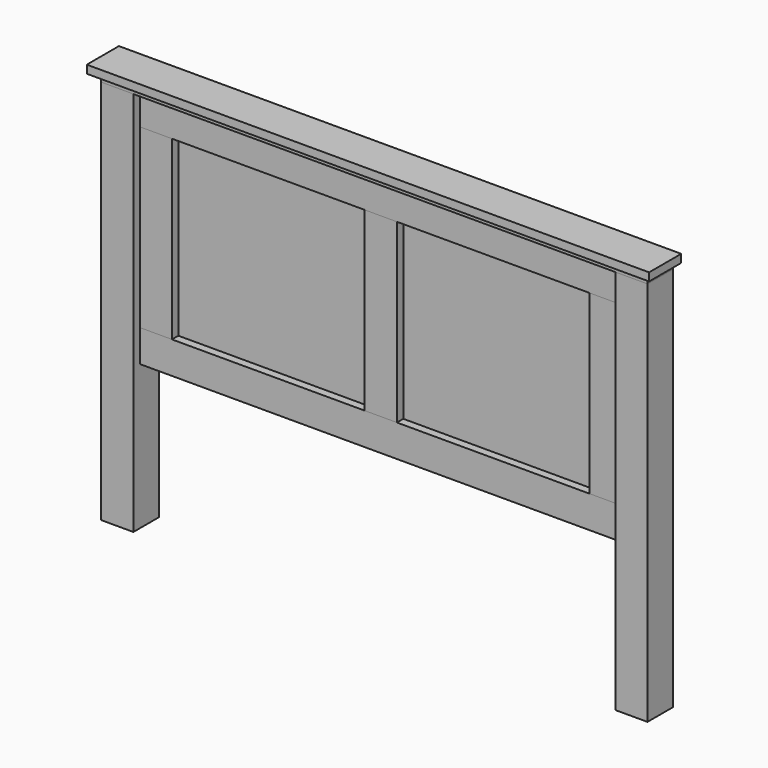
from build123d import *

# Parameters (mm, degrees)
F0_W      = 101.6
F0_H      = 101.6
F1_DEPTH  = 1219.2
F3_W      = 25.4
F3_H      = 101.6
F4_DEPTH  = 762
F5_W      = 25.4
F5_H      = 101.6
F6_DEPTH  = 762
F7_W      = 12.7
F7_H      = 609.6
F8_DEPTH  = 762
F9_W      = 101.6
F9_H      = 25.4
F10_DEPTH = 558.8
F11_W     = 101.6
F11_H     = 25.4
F12_DEPTH = 863.6
F13_W     = 127
F13_H     = 25.4
F14_DEPTH = 889


with BuildPart() as f1:
    # F0 (on Top) → F1 (new body)
    with BuildSketch(Plane.XY):
        with Locations((-812.8, 0)):
            Rectangle(F0_W, F0_H)
    extrude(amount=F1_DEPTH)


with BuildPart() as f2_1:
    # F2: instance of F1
    add(f1.part.mirror(Plane.YZ))


with BuildPart() as f4:
    # F3 (on Right) → F4 (new body, symmetric)
    with BuildSketch(Plane.YZ):
        with Locations((-12.7, 1168.4)):
            Rectangle(F3_W, F3_H)
    extrude(amount=F4_DEPTH, both=True)


with BuildPart() as f6:
    # F5 (on Right) → F6 (new body, symmetric)
    with BuildSketch(Plane.YZ):
        with Locations((-12.7, 508)):
            Rectangle(F5_W, F5_H)
    extrude(amount=F6_DEPTH, both=True)


with BuildPart() as f8:
    # F7 (on Right) → F8 (new body, symmetric)
    with BuildSketch(Plane.YZ):
        with Locations((6.35, 838.2)):
            Rectangle(F7_W, F7_H)
    extrude(amount=F8_DEPTH, both=True)


with BuildPart() as f10:
    # F9 (on face) → F10 (new body)
    with BuildSketch(Plane.XY.offset(558.8)):
        with Locations((-711.2, -12.7)):
            Rectangle(F9_W, F9_H)
        with Locations((711.2, -12.7)):
            Rectangle(F9_W, F9_H)
        with Locations((0, -12.7)):
            Rectangle(F9_W, F9_H)
    extrude(amount=F10_DEPTH)


with BuildPart() as f12:
    # F11 (on Right) → F12 (new body, symmetric)
    with BuildSketch(Plane.YZ):
        with Locations((0, 1231.9)):
            Rectangle(F11_W, F11_H)
    extrude(amount=F12_DEPTH, both=True)

    # F13 (on Right) → F14 (join, symmetric)
    with BuildSketch(Plane.YZ):
        with Locations((-12.7, 1257.3)):
            Rectangle(F13_W, F13_H)
    extrude(amount=F14_DEPTH, both=True)


solid = Compound([f1.part, f2_1.part, f4.part, f6.part, f8.part, f10.part, f12.part])
